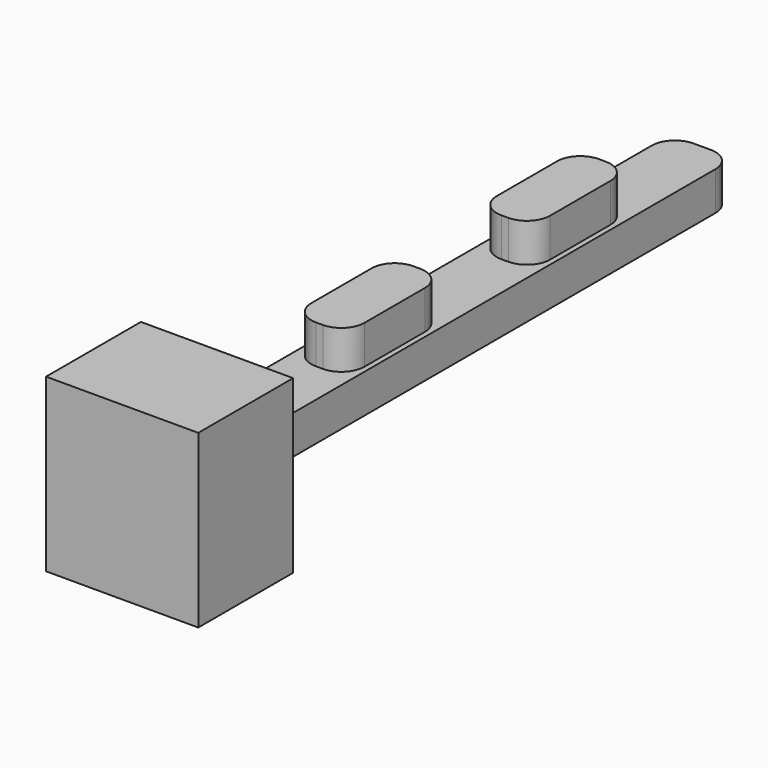
from build123d import *

# Parameters (mm, degrees)
F0_W          = 4.19
F0_H          = 40.08
F2_DEPTH      = 2.54
F1_W          = 3.5
F1_H          = 8
F3_DEPTH      = 5.08
F4_R          = 1.524
F5_R          = 1.524
F6_R          = 1.524
F7_W          = 7.7873766422
F7_H          = 11.2617432605
F8_DEPTH      = 5
F8_DEPTH_BACK = 5


with BuildPart() as f2:
    # F0 (on Top) → F2 (new body)
    with BuildSketch(Plane.XY):
        Rectangle(F0_W, F0_H)
    extrude(amount=F2_DEPTH)

    # F1 (on Top) → F3 (join)
    with BuildSketch(Plane.XY):
        with Locations((0, 7.8411972237)):
            Rectangle(F1_W, F1_H)
        with Locations((0, -7.3970568238)):
            Rectangle(F1_W, F1_H)
    extrude(amount=F3_DEPTH)

    # F4
    f4_edges = [f2.edges().sort_by_distance(p)[0] for p in [
        (-1.75, 11.841197, 3.81),
    ]]
    fillet(f4_edges, radius=F4_R)

    # F5
    f5_edges = [f2.edges().sort_by_distance(p)[0] for p in [
        (1.75, 11.841197, 3.81),
        (1.75, 3.841197, 3.81),
        (1.75, -3.397057, 3.81),
        (1.75, -11.397057, 3.81),
        (-1.75, 3.841197, 3.81),
        (-1.75, -11.397057, 3.81),
        (-1.75, -3.397057, 3.81),
    ]]
    fillet(f5_edges, radius=F5_R)

    # F6
    f6_edges = [f2.edges().sort_by_distance(p)[0] for p in [
        (-2.095, 20.04, 1.27),
        (2.095, 20.04, 1.27),
        (2.095, -20.04, 1.27),
        (-2.095, -20.04, 1.27),
    ]]
    fillet(f6_edges, radius=F6_R)

    # F7 (on Right) → F8 (join, two sides)
    with BuildSketch(Plane.YZ) as f8_sk:
        with Locations((-23.6965231597, 1.3423765777)):
            Rectangle(F7_W, F7_H)
    extrude(amount=-F8_DEPTH)
    extrude(f8_sk.sketch, amount=F8_DEPTH_BACK)


solid = f2.part
